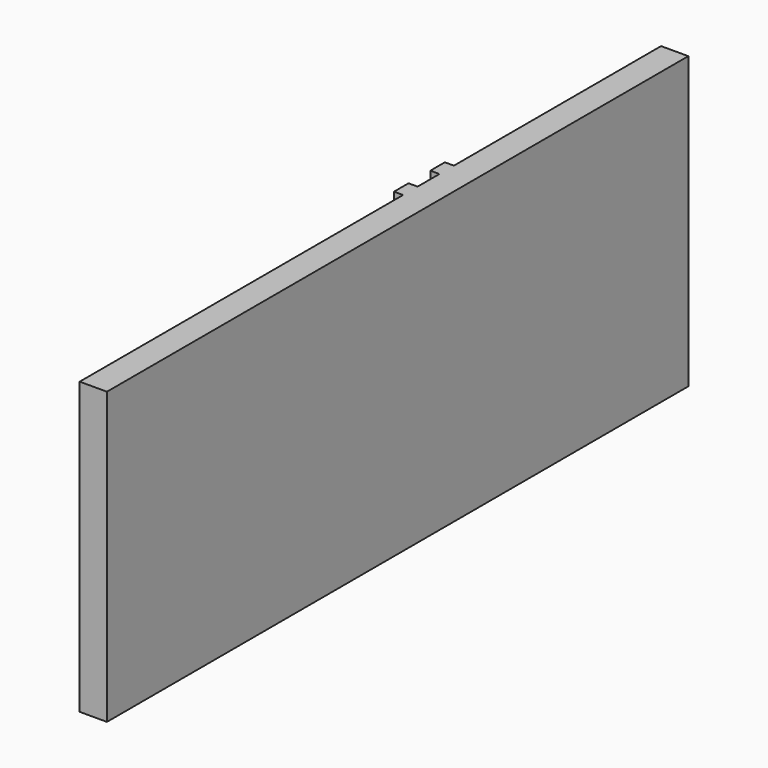
from build123d import *

# Parameters (mm, degrees)
F0_W     = 508
F0_H     = 203.2
F1_DEPTH = 19.05
F2_W     = 12.7
F2_H     = 101.6
F2_H_2   = 76.2
F3_DEPTH = 6.35


with BuildPart() as f1:
    # F0 (on Right) → F1 (new body)
    with BuildSketch(Plane.YZ):
        Rectangle(F0_W, F0_H)
    extrude(amount=F1_DEPTH)

    # F2 (on face) → F3 (join)
    with BuildSketch(Plane(origin=(0, 0, 0), x_dir=(0, -1, 0), z_dir=(-1, 0, 0))):
        with Locations((-66.675, 50.8)):
            Rectangle(F2_W, F2_H)
        with Locations((-66.675, -38.1)):
            Rectangle(F2_W, F2_H_2)
        with Locations((-34.925, -38.1)):
            Rectangle(F2_W, F2_H_2)
        with Locations((-34.925, 50.8)):
            Rectangle(F2_W, F2_H)
    extrude(amount=F3_DEPTH)


solid = f1.part
